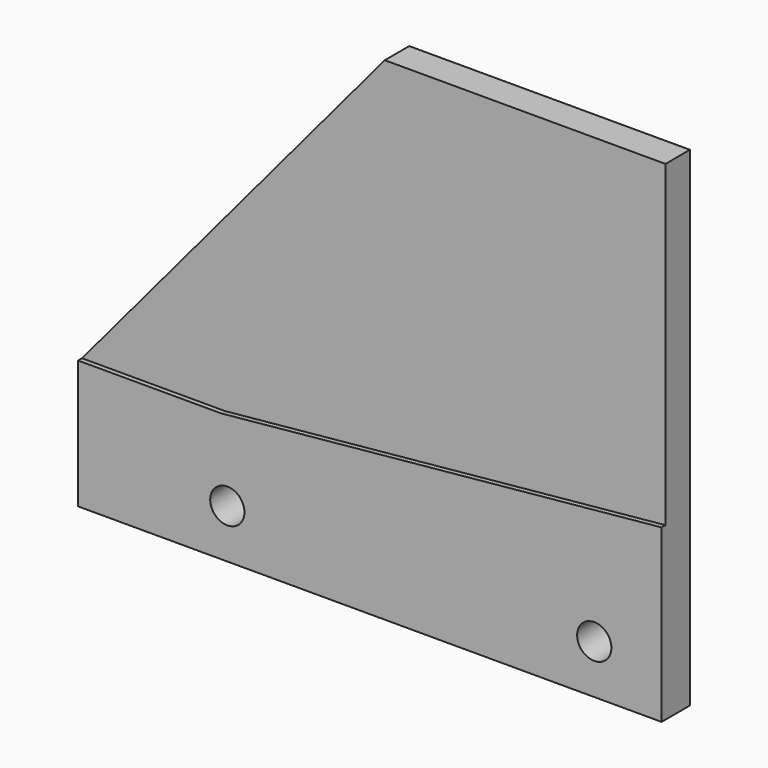
from build123d import *

# Parameters (mm, degrees)
PAD002_DEPTH    = 2.5
SKETCH009_W     = 48
SKETCH009_H     = 10.5
PAD003_DEPTH    = 0.4
SKETCH008_R     = 1.4
POCKET005_DEPTH = 5
POCKET012_DEPTH = 5
PAD008_DEPTH    = 0.4


with BuildPart() as part:
    # Sketch007 (on XZ_Plane001 of Origin002) → Pad002 (new body)
    with BuildSketch(Plane.XZ):
        Polygon((50.5, 0), (50.5, 40), (27.253439, 40), (2.5, 10.5), (2.5, 0), align=None)
    extrude(amount=PAD002_DEPTH)

    # Sketch009 (on Face7 of Pad002) → Pad003 (join)
    with BuildSketch(Plane.XZ.offset(2.5)):
        with Locations((26.5, 5.25)):
            Rectangle(SKETCH009_W, SKETCH009_H)
    extrude(amount=PAD003_DEPTH)

    # Sketch008 (on Face6 of Pad002) → Pocket005 (cut)
    with BuildSketch(Plane(origin=(0, 0, 0), x_dir=(-1, 0, 0), z_dir=(0, 1, 0))):
        with Locations((-45, 4)):
            Circle(SKETCH008_R)
        with Locations((-15, 4)):
            Circle(SKETCH008_R)
    extrude(amount=-POCKET005_DEPTH, mode=Mode.SUBTRACT)

    # Sketch021 (on XZ_Plane001 of Origin002) → Pocket012 (cut)
    with BuildSketch(Plane.XZ):
        Polygon((27.253439, 40), (2.5, 10.5), (2.5, 0), (2.8, 0), (2.8, 10.5), (27.553439, 40), align=None)
    extrude(amount=POCKET012_DEPTH, mode=Mode.SUBTRACT)

    # Sketch022 (on Face4 of Pocket012) → Pad008 (join)
    with BuildSketch(Plane.XZ.offset(2.5)):
        Polygon((14.5, 10.5), (50.5, 10.5), (50.5, 14), align=None)
    extrude(amount=PAD008_DEPTH)


solid = part.part
